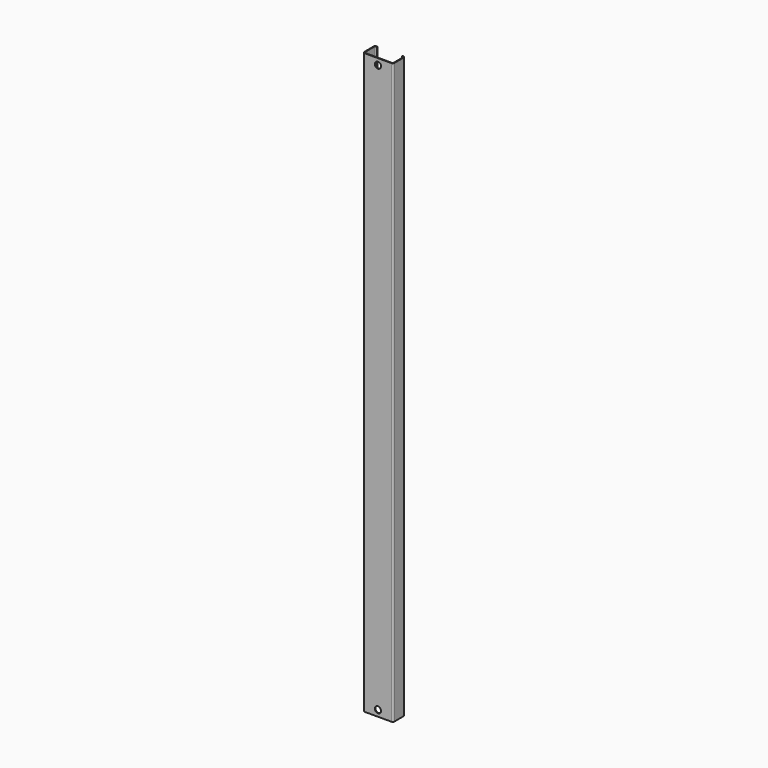
from build123d import *

# Parameters (mm, degrees)
PAD002_DEPTH    = 847
SKETCH006_R     = 4.5
POCKET003_DEPTH = 5
SKETCH008_W     = 36
SKETCH008_H     = 847
POCKET005_DEPTH = 5


with BuildPart() as part:
    # Sketch005 → Pad002 (new body)
    with BuildSketch(Plane.XY):
        with BuildLine():
            Line((-19.5, 11), (19.5, 11))
            ThreePointArc((22, 8.5), (21.267767, 10.267767), (19.5, 11))
            Line((22, 8.5), (22, -8.5))
            ThreePointArc((19.5, -11), (21.267767, -10.267767), (22, -8.5))
            Line((19.5, -11), (-19.5, -11))
            ThreePointArc((-22, -8.5), (-21.267767, -10.267767), (-19.5, -11))
            Line((-22, -8.5), (-22, 8.5))
            ThreePointArc((-19.5, 11), (-21.267767, 10.267767), (-22, 8.5))
        make_face()
        with BuildLine():
            Line((-19.5, 10), (19.5, 10))
            ThreePointArc((21, 8.5), (20.56066, 9.56066), (19.5, 10))
            Line((21, 8.5), (21, -8.5))
            ThreePointArc((19.5, -10), (20.56066, -9.56066), (21, -8.5))
            Line((19.5, -10), (-19.5, -10))
            ThreePointArc((-21, -8.5), (-20.56066, -9.56066), (-19.5, -10))
            Line((-21, -8.5), (-21, 8.5))
            ThreePointArc((-19.5, 10), (-20.56066, 9.56066), (-21, 8.5))
        make_face(mode=Mode.SUBTRACT)
    extrude(amount=PAD002_DEPTH)

    # Sketch006 (on Face7 of Pad002) → Pocket003 (cut)
    with BuildSketch(Plane.XZ.offset(11)):
        with Locations((0, 9)):
            Circle(SKETCH006_R)
        with Locations((0, 838)):
            Circle(SKETCH006_R)
    extrude(amount=-POCKET003_DEPTH, mode=Mode.SUBTRACT)

    # Sketch008 (on Face7 of Pocket003) → Pocket005 (cut)
    with BuildSketch(Plane(origin=(0, 11, 0), x_dir=(-1, 0, 0), z_dir=(0, 1, 0))):
        with Locations((0, 423.5)):
            Rectangle(SKETCH008_W, SKETCH008_H)
    extrude(amount=-POCKET005_DEPTH, mode=Mode.SUBTRACT)


solid = part.part
